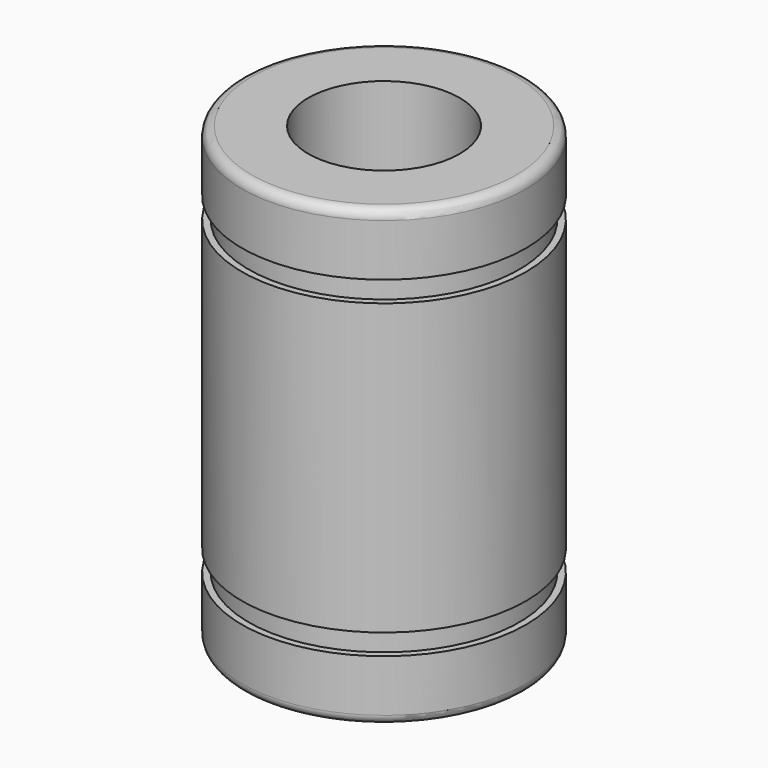
from build123d import *

# Parameters (mm, degrees)
F2_R     = 4
F3_DEPTH = 25
F4_R     = 0.5


with BuildPart() as f1:
    # F0 (on Front) → F1 (revolve)
    with BuildSketch(Plane.XZ):
        Polygon((-7.5, 0), (0, 0), (0, 24), (-7.5, 24), (-7.5, 20.75), (-7.15, 20.75), (-7.15, 19.65), (-7.5, 19.65), (-7.5, 4.35), (-7.15, 4.35), (-7.15, 3.25), (-7.5, 3.25), align=None)
    revolve(axis=Axis((0, 0, 12), (0, 0, 1)))

    # F2 (on face) → F3 (cut)
    with BuildSketch(Plane.XY.offset(24)):
        Circle(F2_R)
    extrude(amount=-F3_DEPTH, mode=Mode.SUBTRACT)

    # F4
    f4_edges = [f1.edges().sort_by_distance(p)[0] for p in [
        (7.5, 0, 0),
        (7.5, 0, 24),
    ]]
    fillet(f4_edges, radius=F4_R)


solid = f1.part
